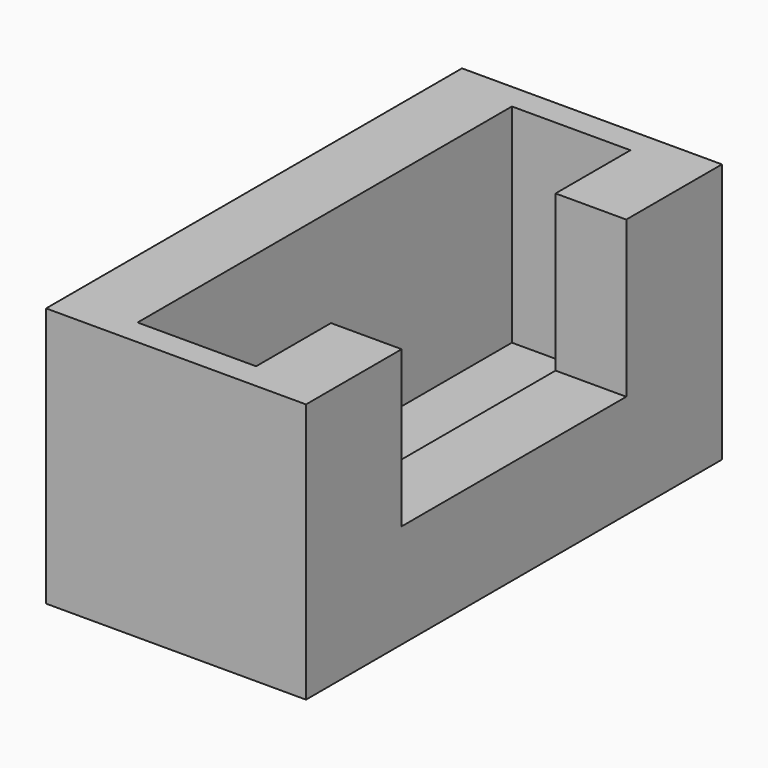
from build123d import *

# Parameters (mm, degrees)
F0_W     = 10
F0_H     = 20
F1_DEPTH = 10
F3_DEPTH = 8
F2_W     = 2.72019
F2_H     = 10.8
F4_DEPTH = 6


with BuildPart() as f1:
    # F0 (on Top) → F1 (new body)
    with BuildSketch(Plane.XY):
        Rectangle(F0_W, F0_H)
    extrude(amount=F1_DEPTH)

    # F2 (on face) → F3 (cut)
    with BuildSketch(Plane.XY.offset(10)):
        Polygon((2.27981, 5.4), (2.27981, 9), (-2.27981, 9), (-2.27981, -9), (2.27981, -9), (2.27981, -5.4), align=None)
    extrude(amount=-F3_DEPTH, mode=Mode.SUBTRACT)

    # F2 (on face) → F4 (cut)
    with BuildSketch(Plane.XY.offset(10)):
        with Locations((3.639905, 0)):
            Rectangle(F2_W, F2_H)
    extrude(amount=-F4_DEPTH, mode=Mode.SUBTRACT)


solid = f1.part
